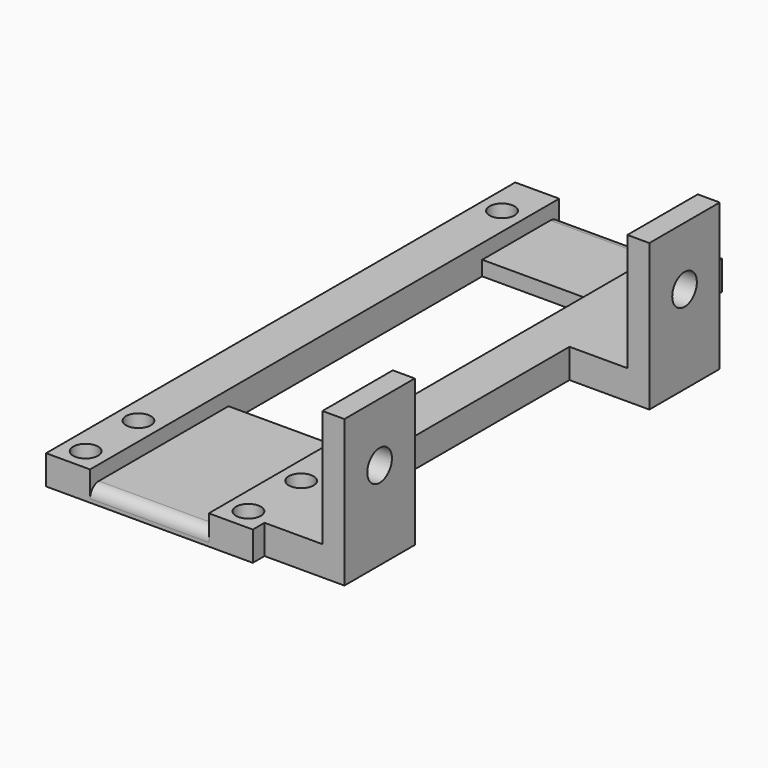
from build123d import *

# Parameters (mm, degrees)
SKETCH001_W     = 28.2
SKETCH001_H     = 80
PAD_DEPTH       = 4
SKETCH002_W     = 16.2
SKETCH002_H     = 80
POCKET_DEPTH    = 2
SKETCH003_W     = 16.2
SKETCH003_H     = 43.275
POCKET001_DEPTH = 2
SKETCH010_R     = 1.7
POCKET004_DEPTH = 4.001
SKETCH021_R     = 1.7
POCKET008_DEPTH = 4.001
FILLET_R        = 1.5
FILLET001_R     = 1.5
SKETCH025_W     = 12
SKETCH025_H     = 4
PAD009_DEPTH    = 10.9
SKETCH026_W     = 3
SKETCH026_H     = 12
PAD010_DEPTH    = 16
SKETCH027_R     = 2.1
POCKET010_DEPTH = 3.001


with BuildPart() as part:
    # Sketch001 → Pad (new body)
    with BuildSketch(Plane.XY):
        with Locations((0, -5.2375)):
            Rectangle(SKETCH001_W, SKETCH001_H)
    extrude(amount=PAD_DEPTH)

    # Sketch002 (on Face6 of Pad) → Pocket (cut)
    with BuildSketch(Plane.XY.offset(4)):
        with Locations((0, -5.2375)):
            Rectangle(SKETCH002_W, SKETCH002_H)
    extrude(amount=-POCKET_DEPTH, mode=Mode.SUBTRACT)

    # Sketch003 (on Face6 of Pocket) → Pocket001 (cut)
    with BuildSketch(Plane.XY.offset(2)):
        Rectangle(SKETCH003_W, SKETCH003_H)
    extrude(amount=-POCKET001_DEPTH, mode=Mode.SUBTRACT)

    # Sketch010 (on Face8 of Pocket001) → Pocket004 (cut, through all)
    with BuildSketch(Plane.XY.offset(4)):
        with Locations((-11.1, -42.2375)):
            Circle(SKETCH010_R)
        with Locations((-11.1, -33.2375)):
            Circle(SKETCH010_R)
        with Locations((11.1, -33.2375)):
            Circle(SKETCH010_R)
        with Locations((11.1, -42.2375)):
            Circle(SKETCH010_R)
    extrude(amount=-POCKET004_DEPTH, mode=Mode.SUBTRACT)

    # Sketch021 (on Face8 of Pocket004) → Pocket008 (cut, through all)
    with BuildSketch(Plane.XY.offset(4)):
        with Locations((-11.1, 28.7625)):
            Circle(SKETCH021_R)
        with Locations((11.1, 28.7625)):
            Circle(SKETCH021_R)
    extrude(amount=-POCKET008_DEPTH, mode=Mode.SUBTRACT)

    # Fillet
    fillet_edges = [part.edges().sort_by_distance(p)[0] for p in [
        (0, 34.7625, 2),
    ]]
    fillet(fillet_edges, radius=FILLET_R)

    # Fillet001
    fillet001_edges = [part.edges().sort_by_distance(p)[0] for p in [
        (0, -45.2375, 2),
    ]]
    fillet(fillet001_edges, radius=FILLET001_R)

    # Sketch025 (on Face15 of Fillet001) → Pad009 (join)
    with BuildSketch(Plane.YZ.offset(14.1)):
        with Locations((-37.2375, 2)):
            Rectangle(SKETCH025_W, SKETCH025_H)
        with Locations((14.7625, 2)):
            Rectangle(SKETCH025_W, SKETCH025_H)
    extrude(amount=PAD009_DEPTH)

    # Sketch026 (on Face28 of Pad009) → Pad010 (join)
    with BuildSketch(Plane.XY.offset(4)):
        with Locations((23.5, 14.7625)):
            Rectangle(SKETCH026_W, SKETCH026_H)
        with Locations((23.5, -37.2375)):
            Rectangle(SKETCH026_W, SKETCH026_H)
    extrude(amount=PAD010_DEPTH)

    # Sketch027 (on Face36 of Pad010) → Pocket010 (cut, through all)
    with BuildSketch(Plane(origin=(22, 0, 0), x_dir=(0, -1, 0), z_dir=(-1, 0, 0))):
        with Locations((-14.7625, 12)):
            Circle(SKETCH027_R)
        with Locations((37.2375, 12)):
            Circle(SKETCH027_R)
    extrude(amount=-POCKET010_DEPTH, mode=Mode.SUBTRACT)


solid = part.part
